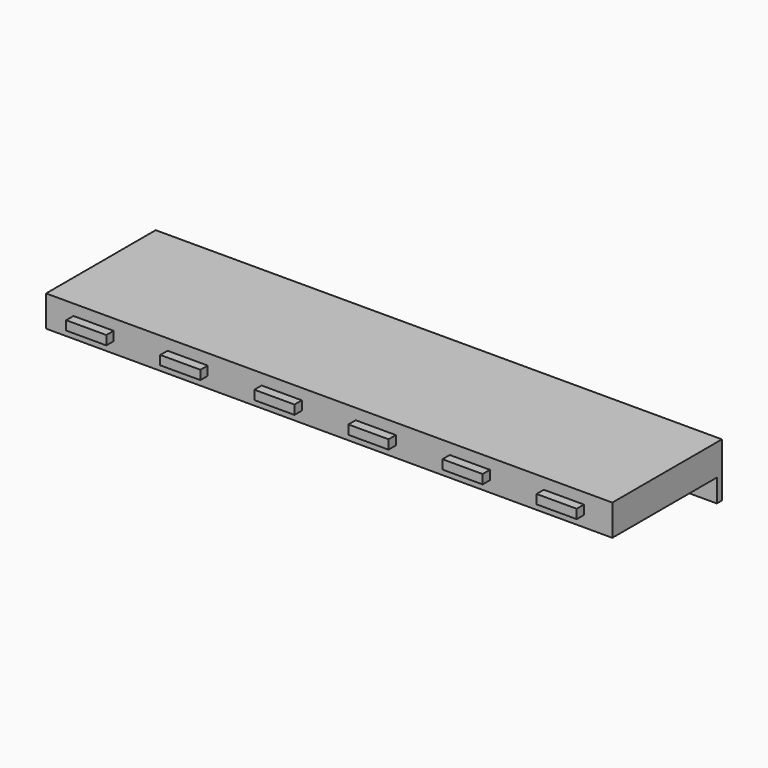
from build123d import *

# Parameters (mm, degrees)
F0_W     = 62
F0_H     = 15
F1_DEPTH = 3.4
F2_W     = 62
F2_H     = 0.7
F3_DEPTH = 2.5
F4_W     = 4.4
F4_H     = 1
F5_DEPTH = 1


with BuildPart() as f1:
    # F0 (on Top) → F1 (new body)
    with BuildSketch(Plane.XY):
        Rectangle(F0_W, F0_H)
    extrude(amount=F1_DEPTH)

    # F2 (on face) → F3 (join)
    with BuildSketch(Plane(origin=(0, 0, 0), x_dir=(1, 0, 0), z_dir=(0, 0, -1))):
        with Locations((0, -7.15)):
            Rectangle(F2_W, F2_H)
    extrude(amount=F3_DEPTH)

    # F4 (on face) → F5 (join)
    with BuildSketch(Plane.XZ.offset(7.5)):
        with Locations((-25.8, 1.7)):
            Rectangle(F4_W, F4_H)
        with Locations((-15.5, 1.7)):
            Rectangle(F4_W, F4_H)
        with Locations((-5.2, 1.7)):
            Rectangle(F4_W, F4_H)
        with Locations((5.1, 1.7)):
            Rectangle(F4_W, F4_H)
        with Locations((15.4, 1.7)):
            Rectangle(F4_W, F4_H)
        with Locations((25.7, 1.7)):
            Rectangle(F4_W, F4_H)
    extrude(amount=F5_DEPTH)


solid = f1.part
